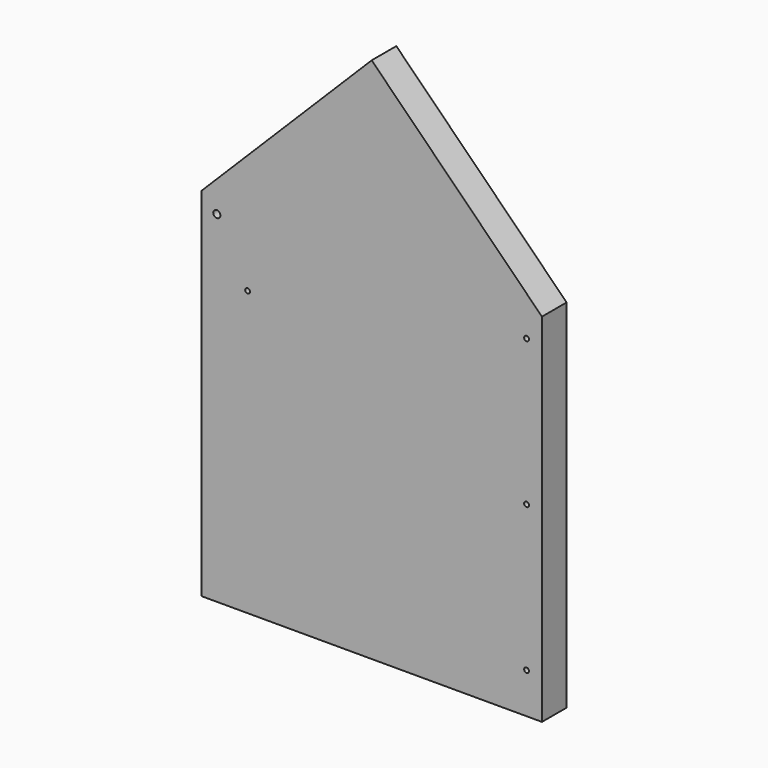
from build123d import *

# Parameters (mm, degrees)
F1_DEPTH       = 19
F3_D           = 3
F3_CSINK_D     = 8
F3_CSINK_ANGLE = 90
F4_D           = 4.4


with BuildPart() as f1:
    # F0 (on Front) → F1 (new body)
    with BuildSketch(Plane.XZ):
        Polygon((-105, 0), (105, 0), (105, 220), (0, 325), (-105, 220), align=None)
    extrude(amount=-F1_DEPTH)

    # F3 (through all)
    with Locations(Plane(origin=(0, 19, 0), x_dir=(-1, 0, 0), z_dir=(0, 1, 0))):
        with Locations((-95.5, 25), (-95.5, 115), (-95.5, 205), (76.5, 175)):
            CounterSinkHole(F3_D / 2, F3_CSINK_D / 2, counter_sink_angle=F3_CSINK_ANGLE)

    # F4 (through all)
    with Locations(Plane(origin=(0, 19, 0), x_dir=(-1, 0, 0), z_dir=(0, 1, 0))):
        with Locations((95.5, 210.5)):
            Hole(F4_D / 2)


solid = f1.part
